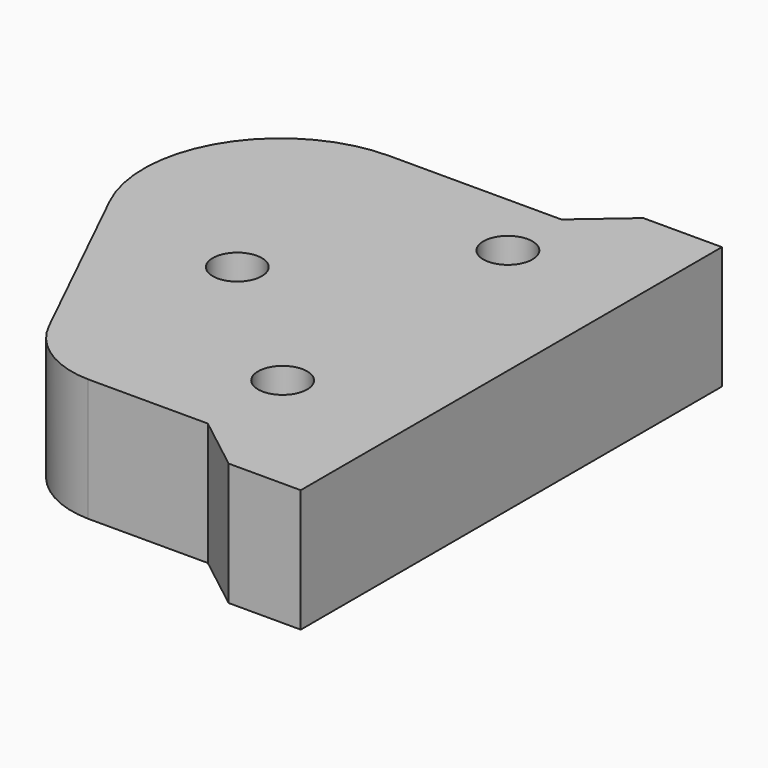
from build123d import *

# Parameters (mm, degrees)
F0_R     = 5
F1_DEPTH = 25


with BuildPart() as f1:
    # F0 (on Top) → F1 (new body)
    with BuildSketch(Plane.XY):
        with BuildLine():
            Line((39.869443, 53.510454), (30, 45))
            Line((30, 45), (-5, 45))
            ThreePointArc((-5, 45), (-28.584953, 31.928096), (-30, 5))
            Line((-30, 5), (-10.707767, -34.573811))
            ThreePointArc((-10.707767, -34.573811), (-4.008451, -42.087552), (5.627668, -45))
            Line((5.627668, -45), (30, -45))
            Line((30, -45), (41.184861, -53.695992))
            Line((41.184861, -53.695992), (55.873677, -53.695992))
            Line((55.873677, -53.695992), (55.873677, 53.510454))
            Line((55.873677, 53.510454), (39.869443, 53.510454))
        make_face()
        with Locations((30, -25.957934)):
            Circle(F0_R, mode=Mode.SUBTRACT)
        Circle(F0_R, mode=Mode.SUBTRACT)
        with Locations((30, 31.374168)):
            Circle(F0_R, mode=Mode.SUBTRACT)
    extrude(amount=F1_DEPTH)


solid = f1.part
